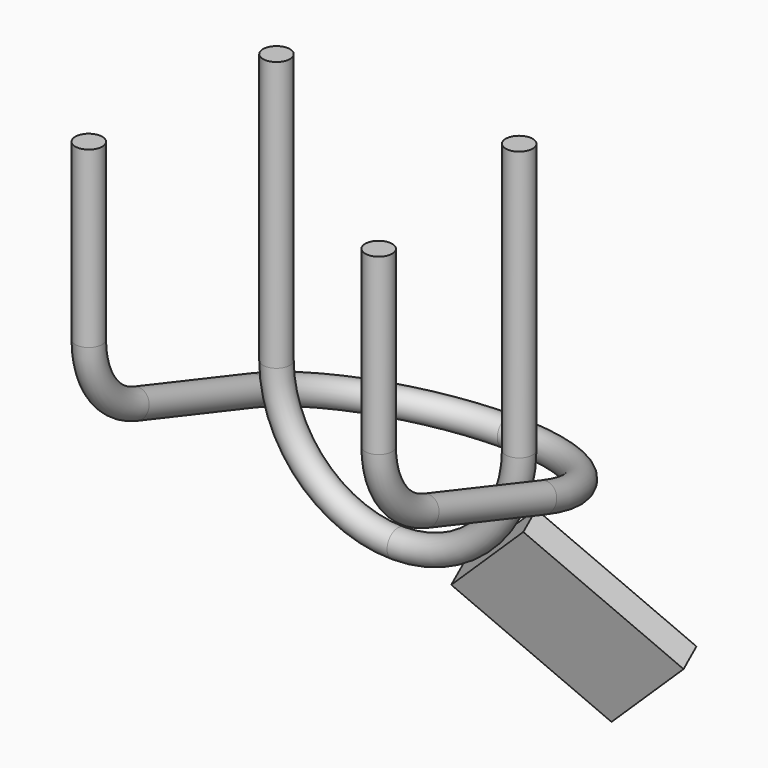
from build123d import *

# Parameters (mm, degrees)
F2_R       = 4
F9_R       = 4
F10_FACE_R = 4
F21_DEPTH  = 8
F22_ANGLE  = -20


with BuildPart() as f3:
    # F3: sweep along a path in F0
    with BuildLine(Plane.XZ) as f3_path:
        Line((-40, 145), (-40, 65))
        ThreePointArc((-40, 65), (-28.2842712475, 36.7157287525), (0, 25))
        ThreePointArc((0, 25), (28.2842712475, 36.7157287525), (40, 65))
        Line((40, 65), (40, 145))
    # F2 (on line) → F3 (sweep)
    with BuildSketch(Plane.XY.offset(145)):
        with Locations((-36, 0)):
            Circle(F2_R)
    sweep(path=f3_path.line)


with BuildPart() as f10:
    # F10: sweep along a path in F7
    with BuildLine(Plane.YZ.offset(43)) as f10_path:
        Line((-60.8525803088, 144.588110197), (-60.8525803088, 92.8951154272))
        ThreePointArc((-60.8525803088, 92.8951154272), (-56.0890816582, 78.2157416961), (-43.6138592579, 69.1303821218))
        Line((-43.6138592579, 69.1303821218), (0, 54.8866149648))
    # F9 (on line) → F10 (sweep)
    with BuildSketch(Plane(origin=(0, 0, 144.588110197), x_dir=(1, 0, 0), z_dir=(0, 0, -1))):
        with Locations((43, 60.8525803088)):
            Circle(F9_R)
    sweep(path=f10_path.line)

    # F15: sweep along a path in F14
    with BuildLine(Plane(origin=(0, 16.197674507, 49.596647324), x_dir=(1, 0, 0), z_dir=(0, -0.310451158, -0.9505893322))) as f15_path:
        ThreePointArc((0, -25.9603868273), (30.405591591, -13.3659784183), (43, 17.0396131727))
    # F10_face (on face) → F15 (sweep)
    with BuildSketch(Plane(origin=(43, 0, 54.8866149648), x_dir=(-1, 0, 0), z_dir=(0, 0.9505893322, -0.310451158))):
        Circle(F10_FACE_R)
    sweep(path=f15_path.line)

    # F16: F10 across plane


with BuildPart() as f10_1:
    add(f10.part)
    add(f10.part.mirror(Plane.YZ))


with BuildPart() as f21:
    # F20 (on line) → F21 (new body)
    with BuildSketch(Plane(origin=(0, 10.8253175473, 6.25), x_dir=(1, 0, 0), z_dir=(0, -0.8660254038, -0.5))):
        Polygon((39.754674175, 41.0857842014), (16.8372060568, 21.7262993155), (49.1030142, -16.4694808816), (72.0204823183, 2.8900040044), align=None)
    extrude(amount=-F21_DEPTH)


with BuildPart() as f21_1:
    # F22: moved
    add(f21.part.rotate(Axis((32.9701101284, 9.5111129388, 8.5262691534), (0.6453161629, 0.381957802, -0.6615703194)), F22_ANGLE))


with BuildPart() as f21_2:
    # F23: moved
    add(f21_1.part.moved(Location((0.5225490487, -1.8483064892, -0.5574097359))))


solid = Compound([f3.part, f10_1.part, f21_2.part])
